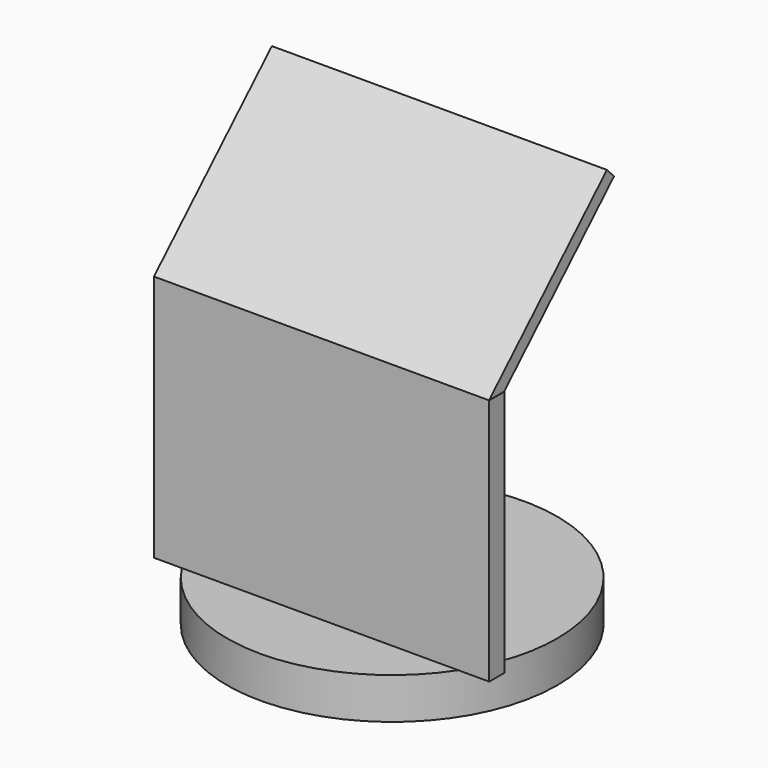
from build123d import *

# Parameters (mm, degrees)
F0_R     = 25.404273
F1_DEPTH = 6.35
F2_W     = 51.59829
F2_H     = 2.908727
F3_DEPTH = 38.1
F5_DEPTH = 51.562
F6_W     = 6.548917
F6_H     = 22.217193
F7_DEPTH = 8.89


with BuildPart() as f1:
    # F0 (on Top) → F1 (new body)
    with BuildSketch(Plane.XY):
        Circle(F0_R)
    extrude(amount=F1_DEPTH)

    # F2 (on face) → F3 (join)
    with BuildSketch(Plane.XY.offset(6.35)):
        with Locations((0.245198, -12.426103)):
            Rectangle(F2_W, F2_H)
    extrude(amount=F3_DEPTH)

    # F4 (on face) → F5 (join)
    with BuildSketch(Plane(origin=(-25.553947, 0, 0), x_dir=(0, -1, 0), z_dir=(-1, 0, 0))):
        Polygon((10.97174, 44.45), (13.880467, 44.45), (-8.800617, 66.449516), (-10.174005, 65.033579), align=None)
    extrude(amount=-F5_DEPTH)

    # F6 (on face) → F7 (join)
    with BuildSketch(Plane.XY.offset(6.35)):
        with Locations((-0.008409, 3.043202)):
            Rectangle(F6_W, F6_H)
    extrude(amount=F7_DEPTH)


solid = f1.part
